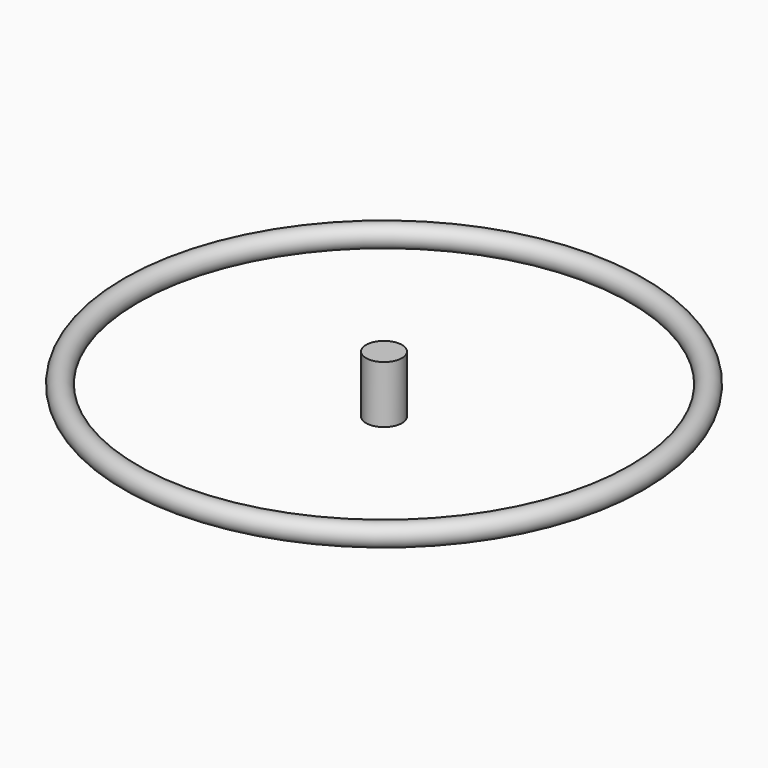
from build123d import *

# Parameters (mm, degrees)
F0_R          = 9.5
F2_R          = 15.675157
F3_DEPTH      = 25
F3_DEPTH_BACK = 25


with BuildPart() as f1:
    # F0 (on Right) → F1 (revolve)
    with BuildSketch(Plane.YZ):
        with Locations((-221, 0)):
            Circle(F0_R)
    revolve(axis=Axis((0, 0, -0.132855), (0, 0, -1)))


with BuildPart() as f3:
    # F2 (on Top) → F3 (new body, two sides)
    with BuildSketch(Plane.XY) as f3_sk:
        Circle(F2_R)
    extrude(amount=F3_DEPTH)
    extrude(f3_sk.sketch, amount=-F3_DEPTH_BACK)


solid = Compound([f1.part, f3.part])
